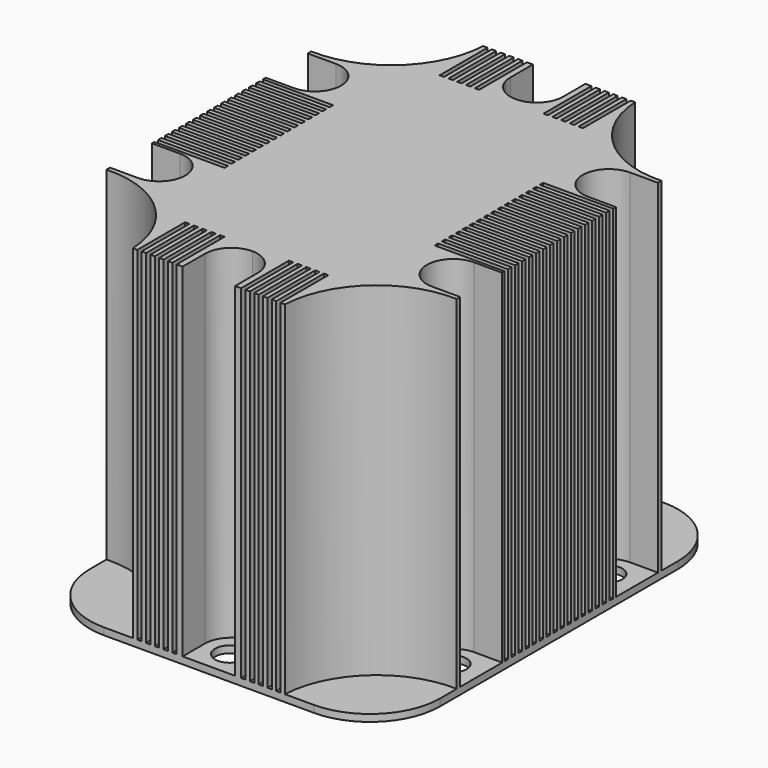
from build123d import *

# Parameters (mm, degrees)
F0_R      = 5.334
F1_DEPTH  = 127
F2_R      = 5.334
F2_W      = 25.4
F2_H      = 1.5875
F3_DEPTH  = 124.46
F5_START  = -2.54
F5_DEPTH  = 124.46
F7_DEPTH  = 124.46
F9_START  = -2.54
F8_W      = 1.5875
F8_H      = 21.6654616523
F9_DEPTH  = 124.46
F11_DEPTH = 124.46


with BuildPart() as f1:
    # F0 (on Top) → F1 (new body)
    with BuildSketch(Plane.XY):
        with BuildLine():
            ThreePointArc((0, 25.4), (7.4394877579, 7.4394877579), (25.4, 0))
            Line((25.4, 0), (63.5, 0))
            Line((63.5, 0), (63.5, 4.1275))
            ThreePointArc((63.5, 4.1275), (58.166, 9.4615), (63.5, 14.7955))
            Line((63.5, 14.7955), (63.5, 23.495))
            Line((63.5, 23.495), (31.75, 23.495))
            ThreePointArc((31.75, 23.495), (27.2598719395, 25.3548719395), (25.4, 29.845))
            Line((25.4, 29.845), (25.4, 79.375))
            Line((25.4, 79.375), (0, 79.375))
            Line((0, 79.375), (0, 25.4))
        make_face()
        with Locations((10.668, 44.069)):
            Circle(F0_R, mode=Mode.SUBTRACT)
        with BuildLine():
            Line((63.5, 4.1275), (63.5, 0))
            Line((63.5, 0), (101.6, 0))
            ThreePointArc((101.6, 0), (119.5605122421, 7.4394877579), (127, 25.4))
            Line((127, 25.4), (127, 79.375))
            Line((127, 79.375), (116.332, 79.375))
            Line((116.332, 79.375), (101.6, 79.375))
            Line((101.6, 79.375), (101.6, 29.845))
            ThreePointArc((101.6, 29.845), (99.7401280605, 25.3548719395), (95.25, 23.495))
            Line((95.25, 23.495), (63.5, 23.495))
            Line((63.5, 23.495), (63.5, 14.7955))
            ThreePointArc((63.5, 14.7955), (67.2717075708, 13.2332075708), (68.834, 9.4615))
            ThreePointArc((68.834, 9.4615), (67.2717075708, 5.6897924292), (63.5, 4.1275))
        make_face()
        with Locations((116.332, 44.069)):
            Circle(F0_R, mode=Mode.SUBTRACT)
        with BuildLine():
            Line((0, 133.35), (0, 79.375))
            Line((0, 79.375), (25.4, 79.375))
            Line((25.4, 79.375), (25.4, 128.905))
            ThreePointArc((25.4, 128.905), (27.2598719395, 133.3951280605), (31.75, 135.255))
            Line((31.75, 135.255), (63.5, 135.255))
            Line((63.5, 135.255), (63.5, 143.9545))
            ThreePointArc((63.5, 143.9545), (58.166, 149.2885), (63.5, 154.6225))
            Line((63.5, 154.6225), (63.5, 158.75))
            Line((63.5, 158.75), (25.4, 158.75))
            ThreePointArc((25.4, 158.75), (7.4394877579, 151.3105122421), (0, 133.35))
        make_face()
        with Locations((10.668, 114.681)):
            Circle(F0_R, mode=Mode.SUBTRACT)
        with BuildLine():
            Line((116.332, 79.375), (127, 79.375))
            Line((127, 79.375), (127, 133.35))
            ThreePointArc((127, 133.35), (119.5605122421, 151.3105122421), (101.6, 158.75))
            Line((101.6, 158.75), (63.5, 158.75))
            Line((63.5, 158.75), (63.5, 154.6225))
            ThreePointArc((63.5, 154.6225), (67.2717075708, 153.0602075708), (68.834, 149.2885))
            ThreePointArc((68.834, 149.2885), (67.2717075708, 145.5167924292), (63.5, 143.9545))
            Line((63.5, 143.9545), (63.5, 135.255))
            Line((63.5, 135.255), (95.25, 135.255))
            ThreePointArc((95.25, 135.255), (99.7401280605, 133.3951280605), (101.6, 128.905))
            Line((101.6, 128.905), (101.6, 79.375))
            Line((101.6, 79.375), (116.332, 79.375))
        make_face()
        with BuildLine():
            ThreePointArc((121.666, 114.681), (120.1037075708, 110.9092924292), (116.332, 109.347))
            ThreePointArc((116.332, 109.347), (112.5602924292, 118.4527075708), (121.666, 114.681))
        make_face(mode=Mode.SUBTRACT)
        with BuildLine():
            Line((25.4, 128.905), (25.4, 79.375))
            Line((25.4, 79.375), (63.5, 79.375))
            Line((63.5, 79.375), (63.5, 135.255))
            Line((63.5, 135.255), (31.75, 135.255))
            ThreePointArc((31.75, 135.255), (27.2598719395, 133.3951280605), (25.4, 128.905))
        make_face()
        with BuildLine():
            Line((63.5, 135.255), (63.5, 79.375))
            Line((63.5, 79.375), (101.6, 79.375))
            Line((101.6, 79.375), (101.6, 128.905))
            ThreePointArc((101.6, 128.905), (99.7401280605, 133.3951280605), (95.25, 135.255))
            Line((95.25, 135.255), (63.5, 135.255))
        make_face()
        with BuildLine():
            Line((63.5, 79.375), (63.5, 23.495))
            Line((63.5, 23.495), (95.25, 23.495))
            ThreePointArc((95.25, 23.495), (99.7401280605, 25.3548719395), (101.6, 29.845))
            Line((101.6, 29.845), (101.6, 79.375))
            Line((101.6, 79.375), (63.5, 79.375))
        make_face()
        with BuildLine():
            Line((63.5, 79.375), (25.4, 79.375))
            Line((25.4, 79.375), (25.4, 29.845))
            ThreePointArc((25.4, 29.845), (27.2598719395, 25.3548719395), (31.75, 23.495))
            Line((31.75, 23.495), (63.5, 23.495))
            Line((63.5, 23.495), (63.5, 79.375))
        make_face()
    extrude(amount=F1_DEPTH)

    # F2 (on face) → F3 (cut)
    with BuildSketch(Plane.XY.offset(127)):
        with BuildLine():
            Line((0, 124.206), (0, 105.156))
            Line((0, 105.156), (10.16, 105.156))
            ThreePointArc((10.16, 105.156), (19.685, 114.681), (10.16, 124.206))
            Line((10.16, 124.206), (0, 124.206))
        make_face()
        with Locations((10.668, 114.681)):
            Circle(F2_R, mode=Mode.SUBTRACT)
        with Locations((12.7, 103.1123498201)):
            Rectangle(F2_W, F2_H)
        with Locations((12.7, 99.9292116523)):
            Rectangle(F2_W, F2_H)
        with Locations((12.7, 96.7542116523)):
            Rectangle(F2_W, F2_H)
        with Locations((12.7, 93.5792116523)):
            Rectangle(F2_W, F2_H)
        with Locations((12.7, 90.4042116523)):
            Rectangle(F2_W, F2_H)
        with Locations((12.7, 87.2292116523)):
            Rectangle(F2_W, F2_H)
        with Locations((12.7, 84.0542116523)):
            Rectangle(F2_W, F2_H)
        with Locations((12.7, 80.8792116523)):
            Rectangle(F2_W, F2_H)
        with Locations((12.7, 77.7042116523)):
            Rectangle(F2_W, F2_H)
        with Locations((12.7, 74.5292116523)):
            Rectangle(F2_W, F2_H)
        with Locations((12.7, 71.3542116523)):
            Rectangle(F2_W, F2_H)
        with Locations((12.7, 68.1792116523)):
            Rectangle(F2_W, F2_H)
        with Locations((12.7, 65.0042116523)):
            Rectangle(F2_W, F2_H)
        with Locations((12.7, 61.8292116523)):
            Rectangle(F2_W, F2_H)
        with Locations((12.7, 58.6542116523)):
            Rectangle(F2_W, F2_H)
        with BuildLine():
            Line((10.16, 53.594), (0, 53.594))
            Line((0, 53.594), (0, 34.544))
            Line((0, 34.544), (10.16, 34.544))
            ThreePointArc((10.16, 34.544), (19.685, 44.069), (10.16, 53.594))
        make_face()
        with Locations((10.668, 44.069)):
            Circle(F2_R, mode=Mode.SUBTRACT)
        with Locations((12.7, 55.4792116523)):
            Rectangle(F2_W, F2_H)
        with BuildLine():
            Line((116.84, 34.544), (127, 34.544))
            Line((127, 34.544), (127, 53.594))
            Line((127, 53.594), (116.84, 53.594))
            ThreePointArc((116.84, 53.594), (107.315, 44.069), (116.84, 34.544))
        make_face()
        with Locations((116.332, 44.069)):
            Circle(F2_R, mode=Mode.SUBTRACT)
        with Locations((114.3, 55.4792116523)):
            Rectangle(F2_W, F2_H)
        with Locations((114.3, 58.6542116523)):
            Rectangle(F2_W, F2_H)
        with Locations((114.3, 61.8292116523)):
            Rectangle(F2_W, F2_H)
        with Locations((114.3, 65.0042116523)):
            Rectangle(F2_W, F2_H)
        with Locations((114.3, 68.1792116523)):
            Rectangle(F2_W, F2_H)
        with Locations((114.3, 71.3542116523)):
            Rectangle(F2_W, F2_H)
        with Locations((114.3, 74.5292116523)):
            Rectangle(F2_W, F2_H)
        with Locations((114.3, 77.7042116523)):
            Rectangle(F2_W, F2_H)
        with Locations((114.3, 80.8792116523)):
            Rectangle(F2_W, F2_H)
        with Locations((114.3, 84.0542116523)):
            Rectangle(F2_W, F2_H)
        with Locations((114.3, 87.2292116523)):
            Rectangle(F2_W, F2_H)
        with Locations((114.3, 90.4042116523)):
            Rectangle(F2_W, F2_H)
        with Locations((114.3, 93.5792116523)):
            Rectangle(F2_W, F2_H)
        with Locations((114.3, 96.7542116523)):
            Rectangle(F2_W, F2_H)
        with Locations((114.3, 99.9292116523)):
            Rectangle(F2_W, F2_H)
        with Locations((114.3, 103.1042116523)):
            Rectangle(F2_W, F2_H)
        with BuildLine():
            Line((127, 105.156), (127, 124.206))
            Line((127, 124.206), (116.84, 124.206))
            ThreePointArc((116.84, 124.206), (107.315, 114.681), (116.84, 105.156))
            Line((116.84, 105.156), (127, 105.156))
        make_face()
        with Locations((116.332, 114.681)):
            Circle(F2_R, mode=Mode.SUBTRACT)
        with Locations((114.3, 93.5792116523)):
            Rectangle(F2_W, F2_H)
        with Locations((114.3, 96.7542116523)):
            Rectangle(F2_W, F2_H)
        with Locations((114.3, 99.9292116523)):
            Rectangle(F2_W, F2_H)
        with BuildLine():
            Line((127, 105.156), (127, 124.206))
            Line((127, 124.206), (116.84, 124.206))
            ThreePointArc((116.84, 124.206), (107.315, 114.681), (116.84, 105.156))
            Line((116.84, 105.156), (127, 105.156))
        make_face()
        with Locations((116.332, 114.681)):
            Circle(F2_R, mode=Mode.SUBTRACT)
        with Locations((114.3, 103.1042116523)):
            Rectangle(F2_W, F2_H)
    extrude(amount=-F3_DEPTH, mode=Mode.SUBTRACT)

    # F4 (on face) → F5 (cut)
    with BuildSketch(Plane.XY.offset(127).offset(F5_START)):
        with BuildLine():
            Line((63.5, 80.0854616523), (63.5, 135.9654616523))
            Line((63.5, 135.9654616523), (34.925, 135.9654616523))
            ThreePointArc((34.925, 135.9654616523), (30.4348719395, 134.1055897128), (28.575, 129.6154616523))
            Line((28.575, 129.6154616523), (28.575, 30.5554616523))
            ThreePointArc((28.575, 30.5554616523), (30.4348719395, 26.0653335917), (34.925, 24.2054616523))
            Line((34.925, 24.2054616523), (63.5, 24.2054616523))
            Line((63.5, 24.2054616523), (63.5, 80.0854616523))
        make_face()
        with BuildLine():
            Line((92.075, 135.9654616523), (63.5, 135.9654616523))
            Line((63.5, 135.9654616523), (63.5, 80.0854616523))
            Line((63.5, 80.0854616523), (63.5, 24.2054616523))
            Line((63.5, 24.2054616523), (92.075, 24.2054616523))
            ThreePointArc((92.075, 24.2054616523), (96.5651280605, 26.0653335917), (98.425, 30.5554616523))
            Line((98.425, 30.5554616523), (98.425, 129.6154616523))
            ThreePointArc((98.425, 129.6154616523), (96.5651280605, 134.1055897128), (92.075, 135.9654616523))
        make_face()
    extrude(amount=-F5_DEPTH, mode=Mode.SUBTRACT)

    # F6 (on face) → F7 (cut)
    with BuildSketch(Plane.XY.offset(127)):
        with BuildLine():
            Line((63.5, 158.75), (53.975, 158.75))
            Line((53.975, 158.75), (53.975, 148.59))
            ThreePointArc((53.975, 148.59), (56.7648079092, 141.8548079092), (63.5, 139.065))
            Line((63.5, 139.065), (63.5, 143.9545))
            ThreePointArc((63.5, 143.9545), (58.166, 149.2885), (63.5, 154.6225))
            Line((63.5, 154.6225), (63.5, 158.75))
        make_face()
        with BuildLine():
            Line((73.025, 158.75), (63.5, 158.75))
            Line((63.5, 158.75), (63.5, 154.6225))
            ThreePointArc((63.5, 154.6225), (67.2717075708, 153.0602075708), (68.834, 149.2885))
            ThreePointArc((68.834, 149.2885), (67.2717075708, 145.5167924292), (63.5, 143.9545))
            Line((63.5, 143.9545), (63.5, 139.065))
            ThreePointArc((63.5, 139.065), (70.2351920908, 141.8548079092), (73.025, 148.59))
            Line((73.025, 148.59), (73.025, 158.75))
        make_face()
        with BuildLine():
            ThreePointArc((73.025, 10.16), (70.2351920908, 16.8951920908), (63.5, 19.685))
            Line((63.5, 19.685), (63.5, 14.7955))
            ThreePointArc((63.5, 14.7955), (67.2717075708, 13.2332075708), (68.834, 9.4615))
            ThreePointArc((68.834, 9.4615), (67.2717075708, 5.6897924292), (63.5, 4.1275))
            Line((63.5, 4.1275), (63.5, 0))
            Line((63.5, 0), (73.025, 0))
            Line((73.025, 0), (73.025, 10.16))
        make_face()
        with BuildLine():
            Line((63.5, 14.7955), (63.5, 19.685))
            ThreePointArc((63.5, 19.685), (56.7648079092, 16.8951920908), (53.975, 10.16))
            Line((53.975, 10.16), (53.975, 0))
            Line((53.975, 0), (63.5, 0))
            Line((63.5, 0), (63.5, 4.1275))
            ThreePointArc((63.5, 4.1275), (58.166, 9.4615), (63.5, 14.7955))
        make_face()
    extrude(amount=-F7_DEPTH, mode=Mode.SUBTRACT)

    # F8 (on face) → F9 (cut)
    with BuildSketch(Plane(origin=(0, 0, 0), x_dir=(1, 0, 0), z_dir=(0, 0, -1)).offset(F9_START)):
        with Locations((51.02225, -10.8327308261)):
            Rectangle(F8_W, F8_H)
        with Locations((47.84725, -10.8327308261)):
            Rectangle(F8_W, F8_H)
        with Locations((44.67225, -10.8327308261)):
            Rectangle(F8_W, F8_H)
        with Locations((41.49725, -10.8327308261)):
            Rectangle(F8_W, F8_H)
        with Locations((38.32225, -10.8327308261)):
            Rectangle(F8_W, F8_H)
        with Locations((75.97775, -10.8327308261)):
            Rectangle(F8_W, F8_H)
        with Locations((79.15275, -10.8327308261)):
            Rectangle(F8_W, F8_H)
        with Locations((82.32775, -10.8327308261)):
            Rectangle(F8_W, F8_H)
        with Locations((85.50275, -10.8327308261)):
            Rectangle(F8_W, F8_H)
        with Locations((88.67775, -10.8327308261)):
            Rectangle(F8_W, F8_H)
        with Locations((38.32225, -147.9172691739)):
            Rectangle(F8_W, F8_H)
        with Locations((41.49725, -147.9172691739)):
            Rectangle(F8_W, F8_H)
        with Locations((44.67225, -147.9172691739)):
            Rectangle(F8_W, F8_H)
        with Locations((47.84725, -147.9172691739)):
            Rectangle(F8_W, F8_H)
        with Locations((51.02225, -147.9172691739)):
            Rectangle(F8_W, F8_H)
        with Locations((75.97775, -147.9172691739)):
            Rectangle(F8_W, F8_H)
        with Locations((79.15275, -147.9172691739)):
            Rectangle(F8_W, F8_H)
        with Locations((82.32775, -147.9172691739)):
            Rectangle(F8_W, F8_H)
        with Locations((85.50275, -147.9172691739)):
            Rectangle(F8_W, F8_H)
        with Locations((88.67775, -147.9172691739)):
            Rectangle(F8_W, F8_H)
    extrude(amount=-F9_DEPTH, mode=Mode.SUBTRACT)

    # F10 (on face) → F11 (cut)
    with BuildSketch(Plane.XY.offset(127)):
        with BuildLine():
            Line((0, 133.35), (0, 125.7935))
            ThreePointArc((0, 125.7935), (24.7443593634, 134.8844582857), (35.941, 158.75))
            Line((35.941, 158.75), (25.4, 158.75))
            ThreePointArc((25.4, 158.75), (7.4394877579, 151.3105122421), (0, 133.35))
        make_face()
        with BuildLine():
            Line((101.6, 158.75), (91.059, 158.75))
            ThreePointArc((91.059, 158.75), (102.2556406366, 134.8844582857), (127, 125.7935))
            Line((127, 125.7935), (127, 133.35))
            ThreePointArc((127, 133.35), (119.5605122421, 151.3105122421), (101.6, 158.75))
        make_face()
        with BuildLine():
            ThreePointArc((127, 32.9565), (102.2556406366, 23.8655417143), (91.059, 0))
            Line((91.059, 0), (101.6, 0))
            ThreePointArc((101.6, 0), (119.5605122421, 7.4394877579), (127, 25.4))
            Line((127, 25.4), (127, 32.9565))
        make_face()
        with BuildLine():
            ThreePointArc((35.941, 0), (24.7443593634, 23.8655417143), (0, 32.9565))
            Line((0, 32.9565), (0, 25.4))
            ThreePointArc((0, 25.4), (7.4394877579, 7.4394877579), (25.4, 0))
            Line((25.4, 0), (35.941, 0))
        make_face()
    extrude(amount=-F11_DEPTH, mode=Mode.SUBTRACT)


solid = f1.part
